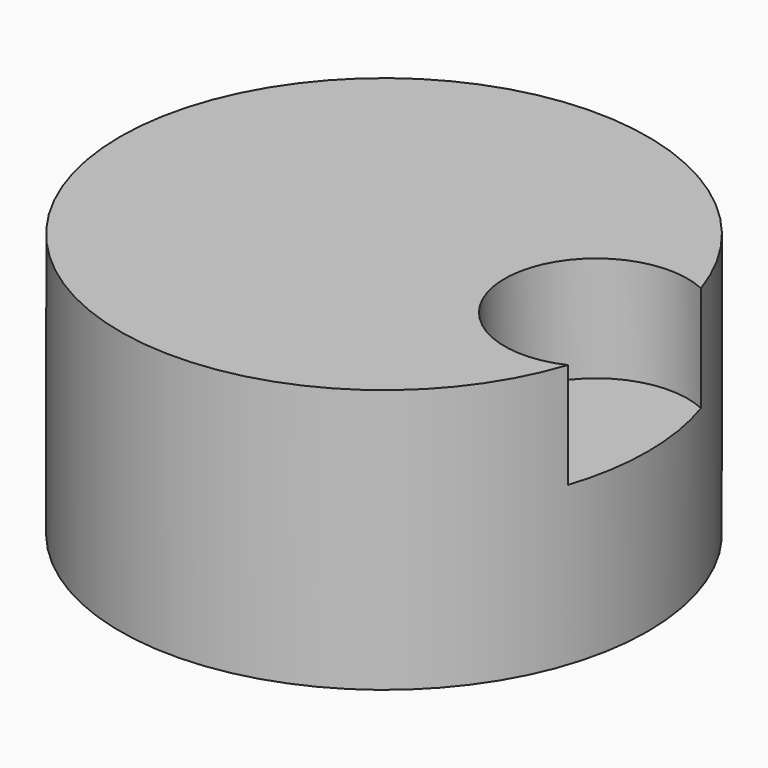
from build123d import *

# Parameters (mm, degrees)
F0_R     = 25
F1_DEPTH = 25
F3_DEPTH = 10


with BuildPart() as f1:
    # F0 (on Top) → F1 (new body)
    with BuildSketch(Plane.XY):
        Circle(F0_R)
    extrude(amount=F1_DEPTH)

    # F2 (on face) → F3 (cut)
    with BuildSketch(Plane.XY.offset(25)):
        with BuildLine():
            ThreePointArc((25, 0), (24.6795605585, 3.9898985754), (23.7264567487, 7.877515481))
            ThreePointArc((23.7264567487, 7.877515481), (11.4271688521, 0), (23.7264567487, -7.877515481))
            ThreePointArc((23.7264567487, -7.877515481), (24.6795605585, -3.9898985754), (25, 0))
        make_face()
    extrude(amount=-F3_DEPTH, mode=Mode.SUBTRACT)


solid = f1.part
